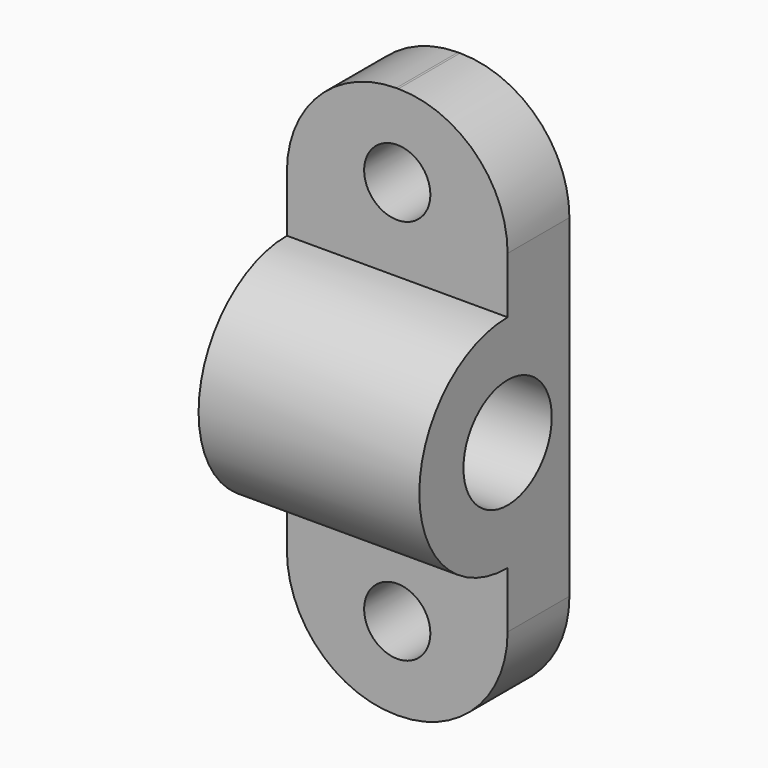
from build123d import *

# Parameters (mm, degrees)
PAD030_DEPTH             = 20
SKETCH021_R              = 5
POCKET001006_DEPTH       = 20.001
FILLET_R                 = 9.9
SKETCH024_R              = 3
POCKET002_DEPTH          = 7.001
CLONE076_ROLL_ANGLE      = 90
CLONE076_PLACEMENT_ANGLE = -90


with BuildPart() as part:
    # Sketch020 → Pad030 (new body)
    with BuildSketch(Plane.XY):
        with BuildLine():
            Line((18, 0), (25, 0))
            Line((25, 0), (25, 15))
            ThreePointArc((25, 15), (35, 25), (25, 35))
            Line((25, 35), (25, 50))
            Line((25, 50), (18, 50))
            Line((18, 50), (18, 0))
        make_face()
    extrude(amount=PAD030_DEPTH)

    # Sketch021 → Pocket001006 (cut, through all)
    with BuildSketch(Plane(origin=(0, 0, 0), x_dir=(1, 0, 0), z_dir=(0, 0, -1))):
        with Locations((25, -25)):
            Circle(SKETCH021_R)
    extrude(amount=-POCKET001006_DEPTH, mode=Mode.SUBTRACT)

    # Fillet
    fillet_edges = [part.edges().sort_by_distance(p)[0] for p in [
        (21.5, 0, 0),
        (21.5, 50, 0),
        (21.5, 50, 20),
        (21.5, 0, 20),
    ]]
    fillet(fillet_edges, radius=FILLET_R)

    # Sketch024 → Pocket002 (cut, through all)
    with BuildSketch(Plane.YZ.offset(25)):
        with Locations((7.5, 10)):
            Circle(SKETCH024_R)
        with Locations((42.5, 10)):
            Circle(SKETCH024_R)
    extrude(amount=-POCKET002_DEPTH, mode=Mode.SUBTRACT)


with BuildPart() as part_1:
    # Clone076 roll: moved
    add(part.part.rotate(Axis((0, 0, 0), (1, 0, 0)), CLONE076_ROLL_ANGLE))


with BuildPart() as part_2:
    # Clone076 placement: moved
    add(part_1.part.moved(Location((120.75, 1500, 0))).rotate(Axis((120.75, 1500, 0), (0, 0, 1)), CLONE076_PLACEMENT_ANGLE))


with BuildPart() as part_3:
    # Clone079 placement: moved
    add(part_2.part.moved(Location((262.25, 0, 0))))


solid = part_3.part
